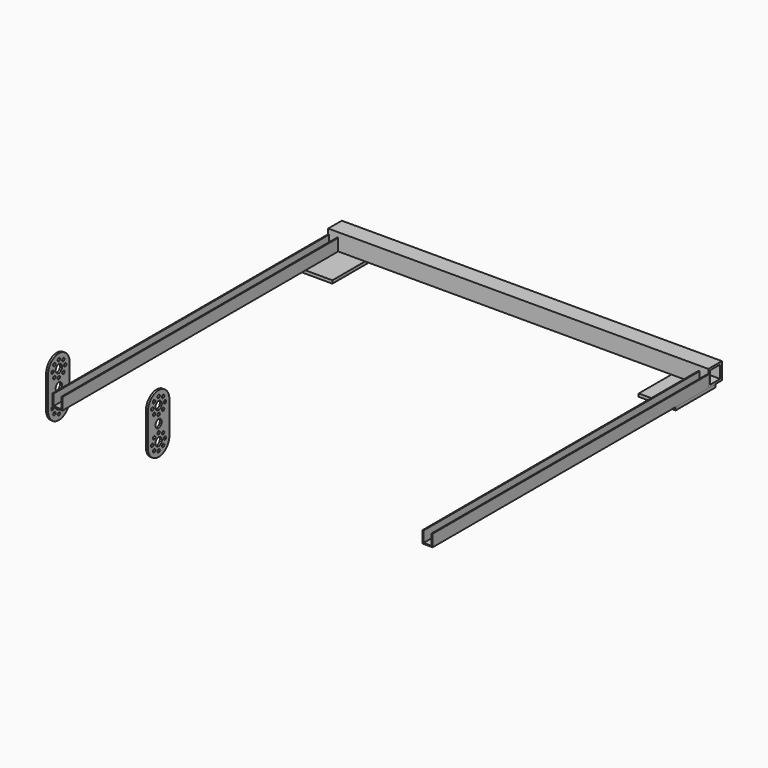
from build123d import *

# Parameters (mm, degrees)
F0_W     = 17
F0_H     = 17
F0_W_2   = 12.7
F0_H_2   = 12.7
F1_DEPTH = 381
F3_DEPTH = 345.44
F5_W     = 37
F5_H     = 9
F5_H_2   = 41
F6_DEPTH = 3
F8_R     = 1.5
F8_R_2   = 4
F9_DEPTH = 2


with BuildPart() as f1:
    # F0 (on Right) → F1 (new body)
    with BuildSketch(Plane.YZ):
        Rectangle(F0_W, F0_H)
        Rectangle(F0_W_2, F0_H_2, mode=Mode.SUBTRACT)
    extrude(amount=F1_DEPTH)


with BuildPart() as f3:
    # F2 (on face) → F3 (new body)
    with BuildSketch(Plane.XZ.offset(8.5)):
        Polygon((0, 3.5), (0, -8.5), (10, -8.5), (10, 3.5), (9, 3.5), (9, -7.5), (1, -7.5), (1, 3.5), align=None)
    extrude(amount=F3_DEPTH)


with BuildPart() as f4_1:
    # F4: copy of F3
    add(f3.part.moved(Location((371, 0, 0))))


with BuildPart() as f6:
    # F5 (on face) → F6 (new body)
    with BuildSketch(Plane(origin=(0, 0, -8.5), x_dir=(1, 0, 0), z_dir=(0, 0, -1))):
        with Locations((362.5, 4)):
            Rectangle(F5_W, F5_H)
        with Locations((362.5, 29)):
            Rectangle(F5_W, F5_H_2)
    extrude(amount=F6_DEPTH)


with BuildPart() as f7_1:
    # F7: copy of F6
    add(f6.part.moved(Location((-344, 0, 0))))


with BuildPart() as f9:
    # F8 (on face) → F9 (new body)
    with BuildSketch(Plane(origin=(0, 0, 0), x_dir=(0, -1, 0), z_dir=(-1, 0, 0))):
        with BuildLine():
            Line((332.4606766701, 22.0787363116), (332.4606766701, 3.5))
            Line((332.4606766701, 3.5), (342.9028802355, 3.5))
            ThreePointArc((342.9028802355, 3.5), (341.963597074, 6.2315587666), (343.108707521, 8.8834238116))
            ThreePointArc((343.108707521, 8.8834238116), (335.4546882941, 13.600870528), (332.4606766701, 22.0787363116))
        make_face()
        with BuildLine():
            ThreePointArc((348.8126458192, 8.8834238116), (356.4666650461, 13.600870528), (359.4606766701, 22.0787363116))
            ThreePointArc((359.4606766701, 22.0787363116), (345.9606766701, 35.5787363116), (332.4606766701, 22.0787363116))
            ThreePointArc((332.4606766701, 22.0787363116), (335.4546882941, 13.600870528), (343.108707521, 8.8834238116))
            ThreePointArc((343.108707521, 8.8834238116), (345.9606766701, 10.0787363116), (348.8126458192, 8.8834238116))
        make_face()
        with Locations((345.9606766701, 14.0787363116)):
            Circle(F8_R, mode=Mode.SUBTRACT)
        with Locations((340.3038224206, 16.4218820621)):
            Circle(F8_R, mode=Mode.SUBTRACT)
        with Locations((351.6175309196, 16.4218820621)):
            Circle(F8_R, mode=Mode.SUBTRACT)
        with Locations((337.9606766701, 22.0787363116)):
            Circle(F8_R, mode=Mode.SUBTRACT)
        with Locations((345.9606766701, 22.0787363116)):
            Circle(F8_R_2, mode=Mode.SUBTRACT)
        with Locations((353.9606766701, 22.0787363116)):
            Circle(F8_R, mode=Mode.SUBTRACT)
        with Locations((340.3038224206, 27.735590561)):
            Circle(F8_R, mode=Mode.SUBTRACT)
        with Locations((351.6175309196, 27.735590561)):
            Circle(F8_R, mode=Mode.SUBTRACT)
        with Locations((345.9606766701, 30.0787363116)):
            Circle(F8_R, mode=Mode.SUBTRACT)
        with BuildLine():
            ThreePointArc((353.94, 0.9681990713), (358.0016663502, -3.8167925793), (359.4606766701, -9.9212636884))
            Line((359.4606766701, -9.9212636884), (359.4606766701, 22.0787363116))
            ThreePointArc((359.4606766701, 22.0787363116), (356.4666650461, 13.600870528), (348.8126458192, 8.8834238116))
            ThreePointArc((348.8126458192, 8.8834238116), (349.6625597447, 7.5940124256), (349.9606766701, 6.0787363116))
            ThreePointArc((349.9606766701, 6.0787363116), (349.7177490502, 4.705999217), (349.0184731047, 3.5))
            Line((349.0184731047, 3.5), (353.94, 3.5))
            Line((353.94, 3.5), (353.94, 0.9681990713))
        make_face()
        with BuildLine():
            ThreePointArc((332.5356995927, -8.5), (332.4794454477, -9.2096424916), (332.4606766701, -9.9212636884))
            ThreePointArc((332.4606766701, -9.9212636884), (345.9606766701, -23.4212636884), (359.4606766701, -9.9212636884))
            ThreePointArc((359.4606766701, -9.9212636884), (358.0016663502, -3.8167925793), (353.94, 0.9681990713))
            Line((353.94, 0.9681990713), (353.94, -8.4214062034))
            ThreePointArc((353.94, -8.4214062034), (355.0140011678, -8.8533182298), (355.4606766701, -9.9212636884))
            ThreePointArc((355.4606766701, -9.9212636884), (353.0858594402, -11.1397442235), (353.4810835843, -8.5))
            Line((353.4810835843, -8.5), (349.6996617634, -8.5))
            ThreePointArc((349.6996617634, -8.5), (349.8948818232, -9.1987473818), (349.9606766701, -9.9212636884))
            ThreePointArc((349.9606766701, -9.9212636884), (345.2381603634, -13.8554688415), (342.2216915768, -8.5))
            Line((342.2216915768, -8.5), (338.4402697558, -8.5))
            ThreePointArc((338.4402697558, -8.5), (339.1791572051, -9.0464464586), (339.4606766701, -9.9212636884))
            ThreePointArc((339.4606766701, -9.9212636884), (337.0858594402, -11.1397442235), (337.4810835843, -8.5))
            Line((337.4810835843, -8.5), (332.5356995927, -8.5))
        make_face()
        with Locations((345.9606766701, -17.9212636884)):
            Circle(F8_R, mode=Mode.SUBTRACT)
        with Locations((340.3038224206, -15.5781179379)):
            Circle(F8_R, mode=Mode.SUBTRACT)
        with Locations((351.6175309196, -15.5781179379)):
            Circle(F8_R, mode=Mode.SUBTRACT)
        with BuildLine():
            ThreePointArc((343.108707521, 3.2740488116), (335.9161855944, -0.9013856942), (332.5356995927, -8.5))
            Line((332.5356995927, -8.5), (337.4810835843, -8.5))
            ThreePointArc((337.4810835843, -8.5), (337.9606766701, -8.4212636884), (338.4402697558, -8.5))
            Line((338.4402697558, -8.5), (342.2216915768, -8.5))
            ThreePointArc((342.2216915768, -8.5), (345.9606766701, -5.9212636884), (349.6996617634, -8.5))
            Line((349.6996617634, -8.5), (353.4810835843, -8.5))
            ThreePointArc((353.4810835843, -8.5), (353.7074737804, -8.4427886983), (353.94, -8.4214062034))
            Line((353.94, -8.4214062034), (353.94, 0.9681990713))
            ThreePointArc((353.94, 0.9681990713), (351.4976848828, 2.3909879355), (348.8126458192, 3.2740488116))
            ThreePointArc((348.8126458192, 3.2740488116), (345.9606766701, 2.0787363116), (343.108707521, 3.2740488116))
        make_face()
        with Locations((340.3038224206, -4.264409439)):
            Circle(F8_R, mode=Mode.SUBTRACT)
        with Locations((351.6175309196, -4.264409439)):
            Circle(F8_R, mode=Mode.SUBTRACT)
        with Locations((345.9606766701, -1.9212636884)):
            Circle(F8_R, mode=Mode.SUBTRACT)
        with BuildLine():
            Line((332.4606766701, -8.5), (332.5356995927, -8.5))
            ThreePointArc((332.5356995927, -8.5), (335.9161855944, -0.9013856942), (343.108707521, 3.2740488116))
            ThreePointArc((343.108707521, 3.2740488116), (343.0036349391, 3.3850577484), (342.9028802355, 3.5))
            Line((342.9028802355, 3.5), (332.4606766701, 3.5))
            Line((332.4606766701, 3.5), (332.4606766701, -8.5))
        make_face()
        with BuildLine():
            ThreePointArc((348.8126458192, 3.2740488116), (351.4976848828, 2.3909879355), (353.94, 0.9681990713))
            Line((353.94, 0.9681990713), (353.94, 3.5))
            Line((353.94, 3.5), (349.0184731047, 3.5))
            ThreePointArc((349.0184731047, 3.5), (348.917718401, 3.3850577484), (348.8126458192, 3.2740488116))
        make_face()
    extrude(amount=F9_DEPTH)


with BuildPart() as f10_1:
    # F10: copy of F9
    add(f9.part.moved(Location((100, 0, 0))))


solid = Compound([f1.part, f3.part, f4_1.part, f6.part, f7_1.part, f9.part, f10_1.part])
